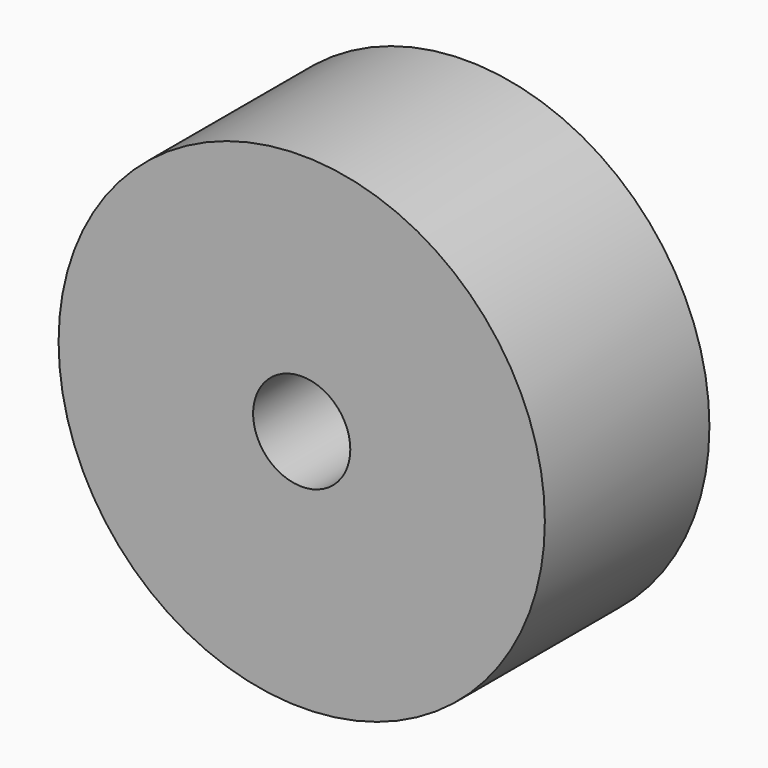
from build123d import *

# Parameters (mm, degrees)
F0_R     = 7.5057
F1_DEPTH = 6.35
F2_R     = 1.499898
F3_DEPTH = 6.351


with BuildPart() as f1:
    # F0 (on Front) → F1 (new body)
    with BuildSketch(Plane.XZ):
        with Locations((-53.977333, 27.060535)):
            Circle(F0_R)
    extrude(amount=F1_DEPTH)

    # F2 (on face) → F3 (cut, through all)
    with BuildSketch(Plane.XZ.offset(6.35)):
        with Locations((-53.977333, 27.060535)):
            Circle(F2_R)
    extrude(amount=-F3_DEPTH, mode=Mode.SUBTRACT)


solid = f1.part
